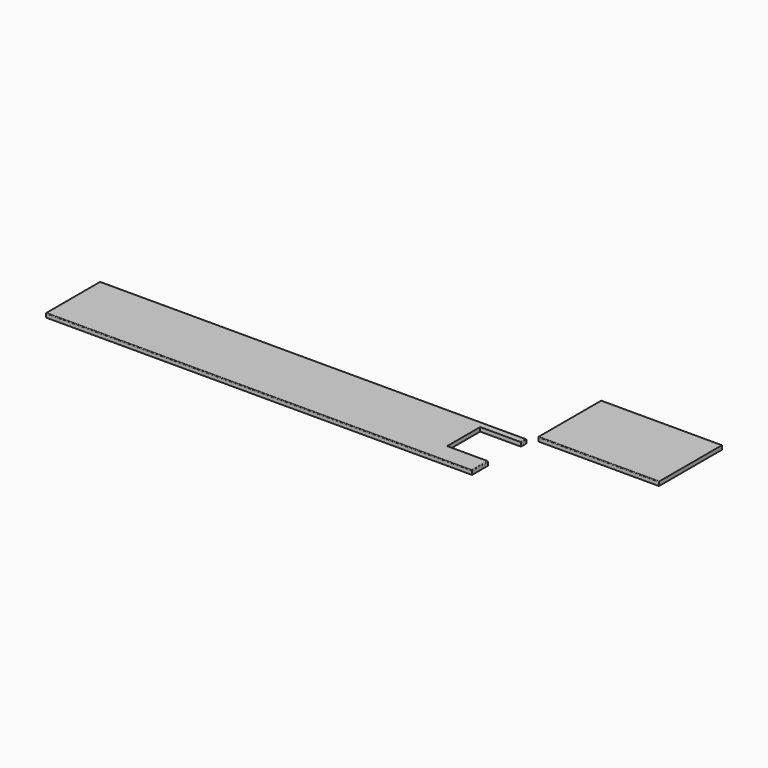
from build123d import *

# Parameters (mm, degrees)
F0_W     = 901.7
F0_H     = 587.375
F1_DEPTH = 30
F2_W     = 3181.35
F2_H     = 508
F3_DEPTH = 30
F4_W     = 304.8
F4_H     = 307.975
F5_DEPTH = 30.001
F6_R     = 5.08
F6_2_R   = 5.08


with BuildPart() as f1:
    # F0 (on Top) → F1 (new body)
    with BuildSketch(Plane.XY):
        with Locations((450.85, 319.0875)):
            Rectangle(F0_W, F0_H)
    extrude(amount=F1_DEPTH)

    # F6#2
    f6_2_edges = [f1.edges().sort_by_distance(p)[0] for p in [
        (450.85, 25.4, 30),
    ]]
    fillet(f6_2_edges, radius=F6_2_R)


with BuildPart() as f3:
    # F2 (on Top) → F3 (new body)
    with BuildSketch(Plane.XY):
        with Locations((-1628.775, -292.1)):
            Rectangle(F2_W, F2_H)
    extrude(amount=F3_DEPTH)

    # F4 (on face) → F5 (cut, through all)
    with BuildSketch(Plane.XY.offset(30)):
        with Locations((-190.5, -242.8875)):
            Rectangle(F4_W, F4_H)
    extrude(amount=-F5_DEPTH, mode=Mode.SUBTRACT)

    # F6
    f6_edges = [f3.edges().sort_by_distance(p)[0] for p in [
        (-38.1, -471.4875, 30),
        (-38.1, -63.5, 30),
        (-1628.775, -546.1, 30),
        (-1628.775, -38.1, 30),
    ]]
    fillet(f6_edges, radius=F6_R)


solid = Compound([f1.part, f3.part])
